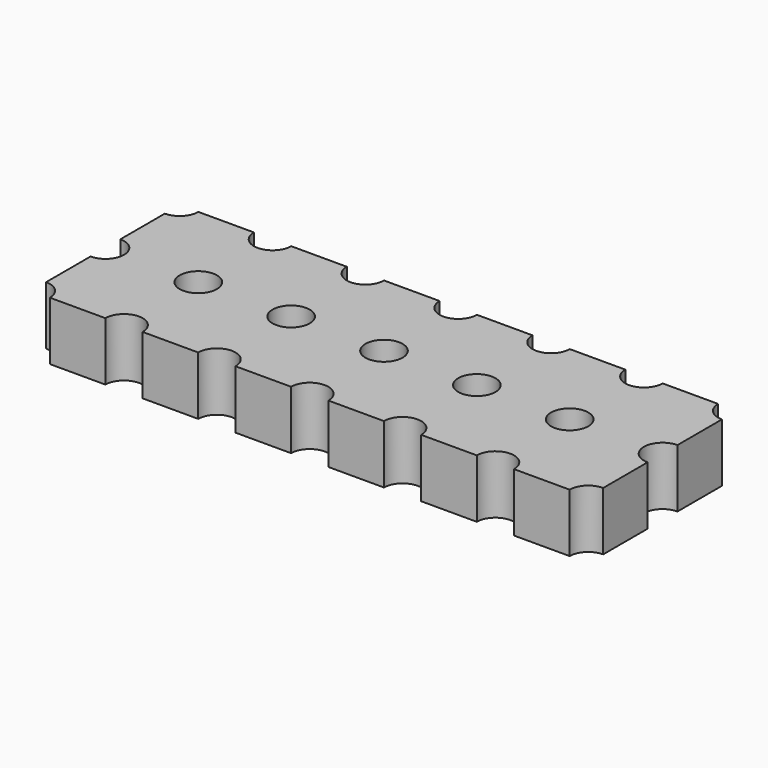
from build123d import *

# Parameters (mm, degrees)
SKETCH_W                     = 15.24
SKETCH_H                     = 5.08
PAD_DEPTH                    = 1.6
SKETCH001_R                  = 0.51
POCKET_DEPTH                 = 33.888707
SKETCH001_LINEARPATTERN_2_R  = 0.51
POCKET_LINEARPATTERN_2_DEPTH = 33.888707
SKETCH001_LINEARPATTERN_3_R  = 0.51
POCKET_LINEARPATTERN_3_DEPTH = 33.888707
SKETCH001_LINEARPATTERN_4_R  = 0.51
POCKET_LINEARPATTERN_4_DEPTH = 33.888707
SKETCH001_LINEARPATTERN_5_R  = 0.51
POCKET_LINEARPATTERN_5_DEPTH = 33.888707
SKETCH001_LINEARPATTERN_6_R  = 0.51
POCKET_LINEARPATTERN_6_DEPTH = 33.888707
SKETCH001_LINEARPATTERN_7_R  = 0.51
POCKET_LINEARPATTERN_7_DEPTH = 33.888707
LINEARPATTERN003_COUNT       = 3
LINEARPATTERN003_PITCH       = 2.54


with BuildPart() as part:
    # Sketch → Pad (new body)
    with BuildSketch(Plane.XY):
        Rectangle(SKETCH_W, SKETCH_H)
    extrude(amount=PAD_DEPTH)

    # Sketch001 → Pocket (cut, through all)
    with BuildSketch(Plane.XY.offset(1.6)):
        with Locations((-7.62, 2.54)):
            Circle(SKETCH001_R)
    pocket = extrude(amount=-POCKET_DEPTH, mode=Mode.SUBTRACT)

    # Sketch001 LinearPattern 2 → Pocket LinearPattern 2 (cut, through all)
    with BuildSketch(Plane(origin=(2.54, 0, 1.6), x_dir=(1, 0, 0), z_dir=(0, 0, 1))):
        with Locations((-7.62, 2.54)):
            Circle(SKETCH001_LINEARPATTERN_2_R)
    pocket_linearpattern_2 = extrude(amount=-POCKET_LINEARPATTERN_2_DEPTH, mode=Mode.SUBTRACT)

    # Sketch001 LinearPattern 3 → Pocket LinearPattern 3 (cut, through all)
    with BuildSketch(Plane(origin=(5.08, 0, 1.6), x_dir=(1, 0, 0), z_dir=(0, 0, 1))):
        with Locations((-7.62, 2.54)):
            Circle(SKETCH001_LINEARPATTERN_3_R)
    pocket_linearpattern_3 = extrude(amount=-POCKET_LINEARPATTERN_3_DEPTH, mode=Mode.SUBTRACT)

    # Sketch001 LinearPattern 4 → Pocket LinearPattern 4 (cut, through all)
    with BuildSketch(Plane(origin=(7.62, 0, 1.6), x_dir=(1, 0, 0), z_dir=(0, 0, 1))):
        with Locations((-7.62, 2.54)):
            Circle(SKETCH001_LINEARPATTERN_4_R)
    pocket_linearpattern_4 = extrude(amount=-POCKET_LINEARPATTERN_4_DEPTH, mode=Mode.SUBTRACT)

    # Sketch001 LinearPattern 5 → Pocket LinearPattern 5 (cut, through all)
    with BuildSketch(Plane(origin=(10.16, 0, 1.6), x_dir=(1, 0, 0), z_dir=(0, 0, 1))):
        with Locations((-7.62, 2.54)):
            Circle(SKETCH001_LINEARPATTERN_5_R)
    pocket_linearpattern_5 = extrude(amount=-POCKET_LINEARPATTERN_5_DEPTH, mode=Mode.SUBTRACT)

    # Sketch001 LinearPattern 6 → Pocket LinearPattern 6 (cut, through all)
    with BuildSketch(Plane(origin=(12.7, 0, 1.6), x_dir=(1, 0, 0), z_dir=(0, 0, 1))):
        with Locations((-7.62, 2.54)):
            Circle(SKETCH001_LINEARPATTERN_6_R)
    pocket_linearpattern_6 = extrude(amount=-POCKET_LINEARPATTERN_6_DEPTH, mode=Mode.SUBTRACT)

    # Sketch001 LinearPattern 7 → Pocket LinearPattern 7 (cut, through all)
    with BuildSketch(Plane(origin=(15.24, 0, 1.6), x_dir=(1, 0, 0), z_dir=(0, 0, 1))):
        with Locations((-7.62, 2.54)):
            Circle(SKETCH001_LINEARPATTERN_7_R)
    pocket_linearpattern_7 = extrude(amount=-POCKET_LINEARPATTERN_7_DEPTH, mode=Mode.SUBTRACT)

    # LinearPattern003: Pocket, Pocket LinearPattern 2, Pocket LinearPattern 3, Pocket LinearPattern 4, Pocket LinearPattern 5, Pocket LinearPattern 6, Pocket LinearPattern 7 ×3
    with Locations(*[(0, -i * LINEARPATTERN003_PITCH, 0) for i in range(1, LINEARPATTERN003_COUNT)]):
        add(pocket, mode=Mode.SUBTRACT)
        add(pocket_linearpattern_2, mode=Mode.SUBTRACT)
        add(pocket_linearpattern_3, mode=Mode.SUBTRACT)
        add(pocket_linearpattern_4, mode=Mode.SUBTRACT)
        add(pocket_linearpattern_5, mode=Mode.SUBTRACT)
        add(pocket_linearpattern_6, mode=Mode.SUBTRACT)
        add(pocket_linearpattern_7, mode=Mode.SUBTRACT)


solid = part.part
